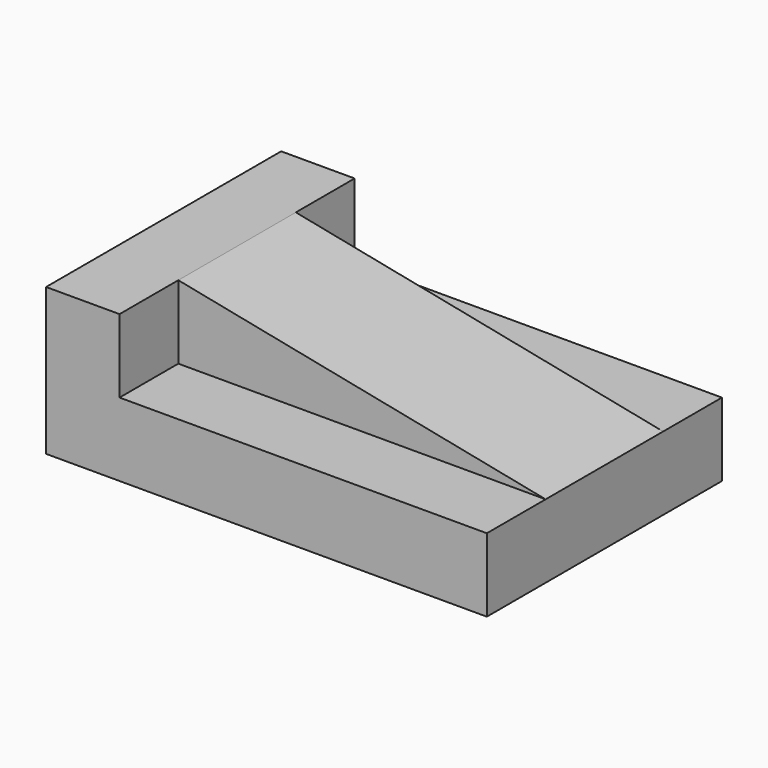
from build123d import *

# Parameters (mm, degrees)
F0_W     = 152.4
F0_H     = 50.8
F1_DEPTH = 101.6
F2_W     = 25.4
F2_H     = 25.4
F3_DEPTH = 127
F4_W     = 25.4
F4_H     = 25.4
F5_DEPTH = 127
F7_DEPTH = 76.2


with BuildPart() as f1:
    # F0 (on Front) → F1 (new body)
    with BuildSketch(Plane.XZ):
        with Locations((-4.444998, -30.638751)):
            Rectangle(F0_W, F0_H)
    extrude(amount=-F1_DEPTH)

    # F2 (on face) → F3 (cut)
    with BuildSketch(Plane.YZ.offset(71.755002)):
        with Locations((12.7, -17.938751)):
            Rectangle(F2_W, F2_H)
    extrude(amount=-F3_DEPTH, mode=Mode.SUBTRACT)

    # F4 (on face) → F5 (cut)
    with BuildSketch(Plane.YZ.offset(71.755002)):
        with Locations((88.9, -17.938751)):
            Rectangle(F4_W, F4_H)
    extrude(amount=-F5_DEPTH, mode=Mode.SUBTRACT)

    # F6 (on face) → F7 (cut)
    with BuildSketch(Plane.XZ.offset(-25.4)):
        Polygon((71.755002, -5.238751), (-55.244998, -5.238751), (71.755002, -30.638751), align=None)
    extrude(amount=-F7_DEPTH, mode=Mode.SUBTRACT)


solid = f1.part
